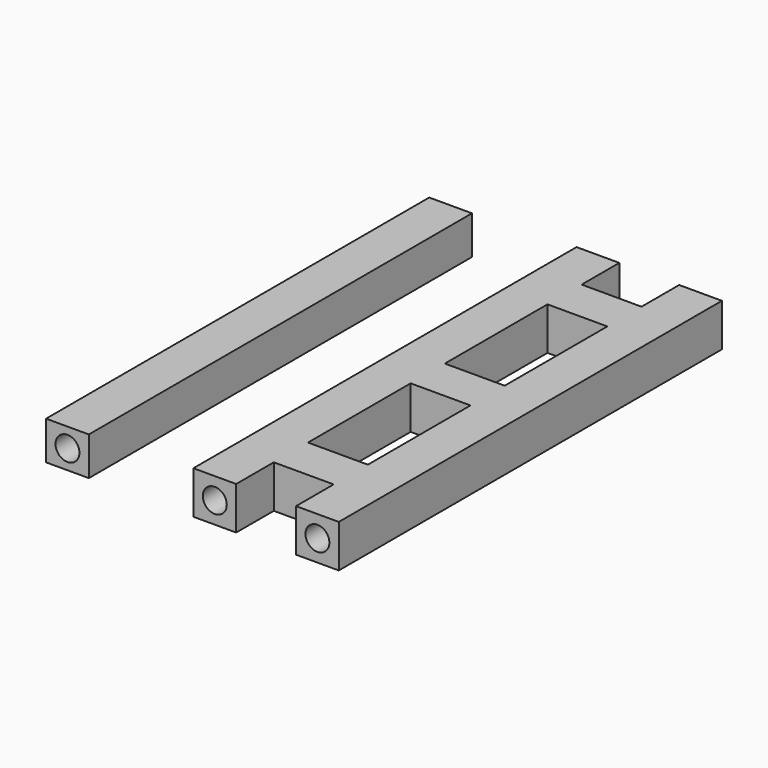
from build123d import *

# Parameters (mm, degrees)
F0_W      = 5
F0_H      = 4.5
F1_DEPTH  = 56
F2_R      = 1.4
F3_DEPTH  = 15
F4_R      = 1.4
F5_DEPTH  = 15
F6_W      = 7
F6_H      = 15
F7_DEPTH  = 5
F8_R      = 1.4
F10_DEPTH = 15
F9_R      = 1.4
F11_DEPTH = 15


with BuildPart() as f1:
    # F0 (on Front) → F1 (new body)
    with BuildSketch(Plane.XZ):
        with Locations((-7.295205, 2.25)):
            Rectangle(F0_W, F0_H)
    extrude(amount=F1_DEPTH)

    # F2 (on face) → F3 (cut)
    with BuildSketch(Plane.XZ.offset(56)):
        with Locations((-7.295205, 2.25)):
            Circle(F2_R)
    extrude(amount=-F3_DEPTH, mode=Mode.SUBTRACT)

    # F4 (on face) → F5 (cut)
    with BuildSketch(Plane(origin=(0, 0, 0), x_dir=(-1, 0, 0), z_dir=(0, 1, 0))):
        with Locations((7.295205, 2.25)):
            Circle(F4_R)
    extrude(amount=-F5_DEPTH, mode=Mode.SUBTRACT)


with BuildPart() as f7:
    # F6 (on Top) → F7 (new body)
    with BuildSketch(Plane.XY):
        Polygon((12.431414, 0), (7.431414, 0), (7.431414, -56), (12.431414, -56), (12.431414, -50.5), (19.431414, -50.5), (19.431414, -56), (24.431414, -56), (24.431414, 0), (19.431414, 0), (19.431414, -5.5), (12.431414, -5.5), align=None)
        with Locations((15.931414, -38)):
            Rectangle(F6_W, F6_H, mode=Mode.SUBTRACT)
        with Locations((15.931414, -18)):
            Rectangle(F6_W, F6_H, mode=Mode.SUBTRACT)
    extrude(amount=F7_DEPTH)

    # F8 (on face) → F10 (cut)
    with BuildSketch(Plane.XZ.offset(56)):
        with Locations((9.931414, 2.5)):
            Circle(F8_R)
        with Locations((21.931414, 2.5)):
            Circle(F8_R)
    extrude(amount=-F10_DEPTH, mode=Mode.SUBTRACT)

    # F9 (on face) → F11 (cut)
    with BuildSketch(Plane(origin=(0, 0, 0), x_dir=(-1, 0, 0), z_dir=(0, 1, 0))):
        with Locations((-21.931414, 2.5)):
            Circle(F9_R)
        with Locations((-9.931414, 2.5)):
            Circle(F9_R)
    extrude(amount=-F11_DEPTH, mode=Mode.SUBTRACT)


solid = Compound([f1.part, f7.part])
